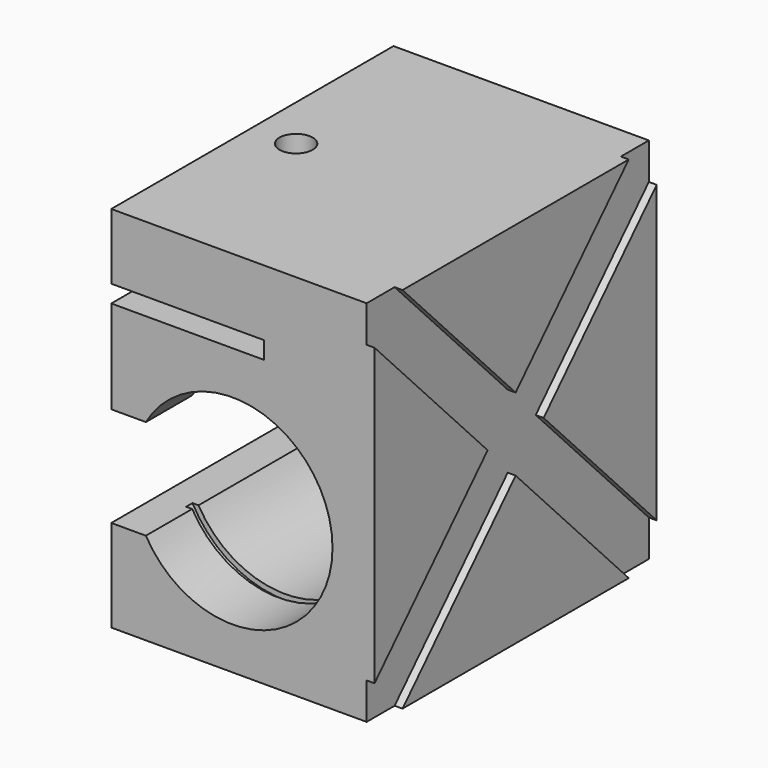
from build123d import *

# Parameters (mm, degrees)
F0_W      = 50
F0_H      = 70
F1_DEPTH  = 67
F3_DEPTH  = 1.5
F4_W      = 29
F4_H      = 3.3
F5_DEPTH  = 67.001
F6_R      = 3.15
F7_DEPTH  = 12.5
F9_R      = 20
F10_DEPTH = 1.5
F13_DEPTH = 1.5


with BuildPart() as f1:
    # F0 (on Front) → F1 (new body)
    with BuildSketch(Plane.XZ):
        with Locations((-25, 35)):
            Rectangle(F0_W, F0_H)
    extrude(amount=F1_DEPTH)

    # F2 (on face) → F3 (cut)
    with BuildSketch(Plane.YZ):
        Polygon((-60.3556444086, 70), (-67, 70), (-67, 63.0581359493), (-40.1443555914, 35), (-33.5, 41.9418640507), align=None)
        Polygon((0, 70), (-6.6443555914, 70), (-33.5, 41.9418640507), (-26.8556444086, 35), (0, 63.0581359493), align=None)
        Polygon((-26.8556444086, 35), (-33.5, 41.9418640507), (-40.1443555914, 35), (-33.5, 28.0581359493), align=None)
        Polygon((-40.1443555914, 35), (-67, 6.9418640507), (-67, 0), (-60.3556444086, 0), (-33.5, 28.0581359493), align=None)
        Polygon((0, 6.9418640507), (-26.8556444086, 35), (-33.5, 28.0581359493), (-6.6443555914, 0), (0, 0), align=None)
    extrude(amount=-F3_DEPTH, mode=Mode.SUBTRACT)

    # F4 (on face) → F5 (cut, through all)
    with BuildSketch(Plane(origin=(0, 0, 0), x_dir=(-1, 0, 0), z_dir=(0, 1, 0))):
        with Locations((35.5, 55.85)):
            Rectangle(F4_W, F4_H)
        with BuildLine():
            Line((26.9792577421, 36.5), (43.433740414, 36.5))
            ThreePointArc((43.433740414, 36.5), (7.9792577421, 27), (43.433740414, 17.5))
            Line((43.433740414, 17.5), (26.9792577421, 17.5))
            Line((26.9792577421, 17.5), (26.9792577421, 36.5))
        make_face()
        with BuildLine():
            ThreePointArc((45.9792577421, 27), (45.3318484416, 31.9175618569), (43.433740414, 36.5))
            Line((43.433740414, 36.5), (26.9792577421, 36.5))
            Line((26.9792577421, 36.5), (26.9792577421, 17.5))
            Line((26.9792577421, 17.5), (43.433740414, 17.5))
            ThreePointArc((43.433740414, 17.5), (45.3318484416, 22.0824381431), (45.9792577421, 27))
        make_face()
        with BuildLine():
            Line((50, 17.5), (50, 36.5))
            Line((50, 36.5), (43.433740414, 36.5))
            ThreePointArc((43.433740414, 36.5), (45.3318484416, 31.9175618569), (45.9792577421, 27))
            ThreePointArc((45.9792577421, 27), (45.3318484416, 22.0824381431), (43.433740414, 17.5))
            Line((43.433740414, 17.5), (50, 17.5))
        make_face()
    extrude(amount=-F5_DEPTH, mode=Mode.SUBTRACT)

    # F6 (on face) → F7 (cut, through all)
    with BuildSketch(Plane.XY.offset(70)):
        with Locations((-41.7, -33.5)):
            Circle(F6_R)
    extrude(amount=-F7_DEPTH, mode=Mode.SUBTRACT)

    # F9 (on offset) → F10 (cut)
    with BuildSketch(Plane(origin=(0, -12.5, 0), x_dir=(-1, 0, 0), z_dir=(0, 1, 0))):
        with Locations((26.9792577421, 27)):
            Circle(F9_R)
    extrude(amount=F10_DEPTH, mode=Mode.SUBTRACT)

    # F12 (on offset) → F13 (cut)
    with BuildSketch(Plane(origin=(0, -54.5, 0), x_dir=(-1, 0, 0), z_dir=(0, 1, 0))):
        with BuildLine():
            Line((43.433740414, 36.5), (44.5789736489, 36.5))
            ThreePointArc((44.5789736489, 36.5), (6.9792577421, 27), (44.5789736489, 17.5))
            Line((44.5789736489, 17.5), (43.433740414, 17.5))
            ThreePointArc((43.433740414, 17.5), (7.9792577421, 27), (43.433740414, 36.5))
        make_face()
    extrude(amount=-F13_DEPTH, mode=Mode.SUBTRACT)


solid = f1.part
